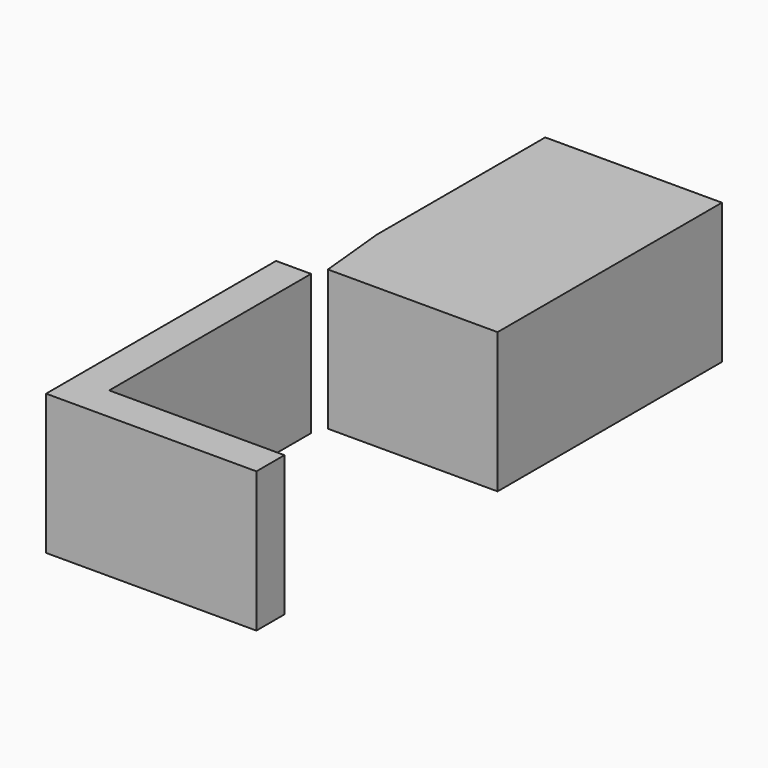
from build123d import *

# Parameters (mm, degrees)
F1_DEPTH = 10


with BuildPart() as f1:
    # F0 (on Top) → F1 (new body)
    with BuildSketch(Plane.XY):
        Polygon((0.4, 1), (12.5, 1), (12.5, 21), (-0.1, 21), (-0.1, 6), align=None)
        Polygon((0, -18), (0, 0), (-2.5, 0), (-2.5, -18), (-2.5, -20.5), (12.5, -20.5), (12.5, -18), align=None)
    extrude(amount=F1_DEPTH)


solid = f1.part
